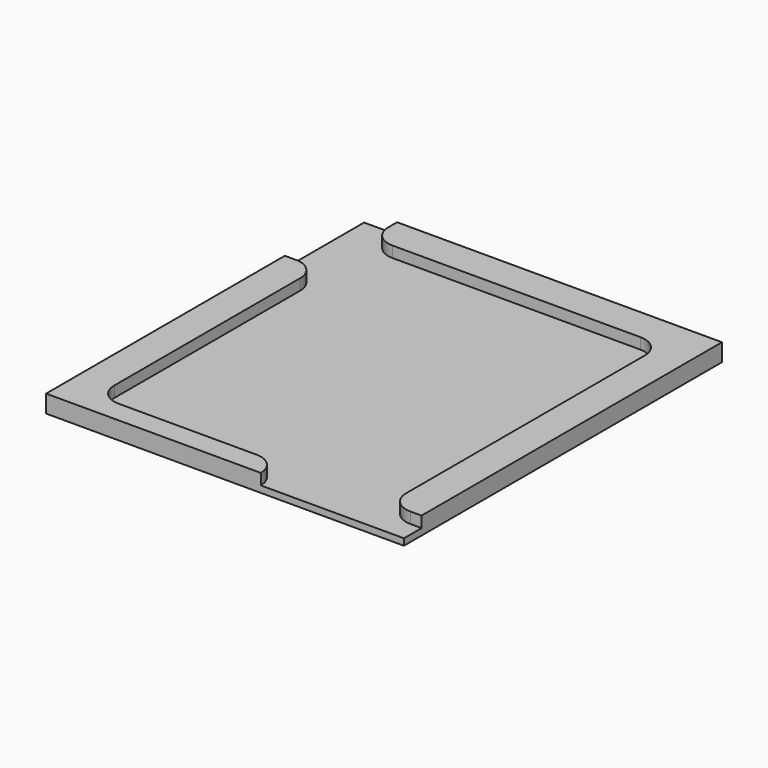
from build123d import *

# Parameters (mm, degrees)
F0_W     = 32.5
F0_H     = 36.1
F1_DEPTH = 9.6
F3_DEPTH = 8
F4_DEPTH = 9


with BuildPart() as f1:
    # F0 (on Top) → F1 (new body)
    with BuildSketch(Plane.XY):
        with Locations((-16.25, 18.05)):
            Rectangle(F0_W, F0_H)
    extrude(amount=F1_DEPTH)

    # F2 (on face) → F3 (cut)
    with BuildSketch(Plane.XY.offset(9.6)):
        with BuildLine():
            Line((-32.5, 0), (-13, 0))
            ThreePointArc((-13, 0), (-13.585786, 1.414214), (-15, 2))
            Line((-15, 2), (-27.5, 2))
            ThreePointArc((-27.5, 2), (-28.914214, 2.585786), (-29.5, 4))
            Line((-29.5, 4), (-29.5, 25.1))
            ThreePointArc((-29.5, 25.1), (-30.085786, 26.514214), (-31.5, 27.1))
            Line((-31.5, 27.1), (-32.5, 27.1))
            Line((-32.5, 27.1), (-32.5, 0))
        make_face()
        with BuildLine():
            Line((-3, 31.1), (-3, 4))
            ThreePointArc((-3, 4), (-2.414214, 2.585786), (-1, 2))
            Line((-1, 2), (0, 2))
            Line((0, 2), (0, 36.1))
            Line((0, 36.1), (-29.5, 36.1))
            Line((-29.5, 36.1), (-29.5, 35.1))
            ThreePointArc((-29.5, 35.1), (-28.914214, 33.685786), (-27.5, 33.1))
            Line((-27.5, 33.1), (-5, 33.1))
            ThreePointArc((-5, 33.1), (-3.585786, 32.514214), (-3, 31.1))
        make_face()
    extrude(amount=-F3_DEPTH, mode=Mode.SUBTRACT)

    # F1_face (on face) → F4 (cut)
    with BuildSketch(Plane(origin=(-16.25, 18.05, 9.6), x_dir=(1, 0, 0), z_dir=(0, 0, 1))):
        with BuildLine():
            ThreePointArc((1.25, -16.05), (2.664214, -16.635786), (3.25, -18.05))
            Line((3.25, -18.05), (16.25, -18.05))
            Line((16.25, -18.05), (16.25, -16.05))
            Line((16.25, -16.05), (15.25, -16.05))
            ThreePointArc((15.25, -16.05), (13.835786, -15.464214), (13.25, -14.05))
            Line((13.25, -14.05), (13.25, 13.05))
            ThreePointArc((13.25, 13.05), (12.664214, 14.464214), (11.25, 15.05))
            Line((11.25, 15.05), (-11.25, 15.05))
            ThreePointArc((-11.25, 15.05), (-12.664214, 15.635786), (-13.25, 17.05))
            Line((-13.25, 17.05), (-13.25, 18.05))
            Line((-13.25, 18.05), (-16.25, 18.05))
            Line((-16.25, 18.05), (-16.25, 9.05))
            Line((-16.25, 9.05), (-15.25, 9.05))
            ThreePointArc((-15.25, 9.05), (-13.835786, 8.464214), (-13.25, 7.05))
            Line((-13.25, 7.05), (-13.25, -14.05))
            ThreePointArc((-13.25, -14.05), (-12.664214, -15.464214), (-11.25, -16.05))
            Line((-11.25, -16.05), (1.25, -16.05))
        make_face()
    extrude(amount=-F4_DEPTH, mode=Mode.SUBTRACT)


solid = f1.part
